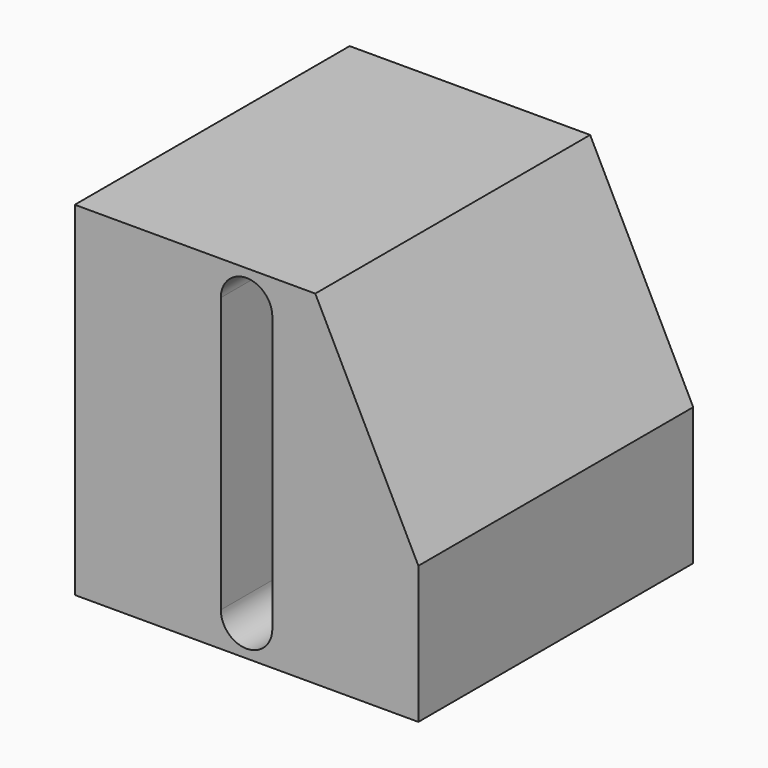
from build123d import *

# Parameters (mm, degrees)
F0_W     = 127
F0_H     = 127
F1_DEPTH = 127
F3_DEPTH = 127
F4_SIZE2 = 76.2
F4_SIZE  = 38.1


with BuildPart() as f1:
    # F0 (on Front) → F1 (new body)
    with BuildSketch(Plane.XZ):
        with Locations((63.5, 63.5)):
            Rectangle(F0_W, F0_H)
    extrude(amount=F1_DEPTH)

    # F2 (on face) → F3 (cut, through all)
    with BuildSketch(Plane.XZ.offset(127)):
        with BuildLine():
            Line((73.025, 12.7), (73.025, 114.3))
            ThreePointArc((73.025, 114.3), (63.5, 123.825), (53.975, 114.3))
            Line((53.975, 114.3), (53.975, 12.7))
            ThreePointArc((53.975, 12.7), (63.5, 3.175), (73.025, 12.7))
        make_face()
    extrude(amount=-F3_DEPTH, mode=Mode.SUBTRACT)

    # F4
    f4_edges = [f1.edges().sort_by_distance(p)[0] for p in [
        (127, -63.5, 127),
    ]]
    chamfer(f4_edges, length=F4_SIZE, length2=F4_SIZE2)


solid = f1.part
